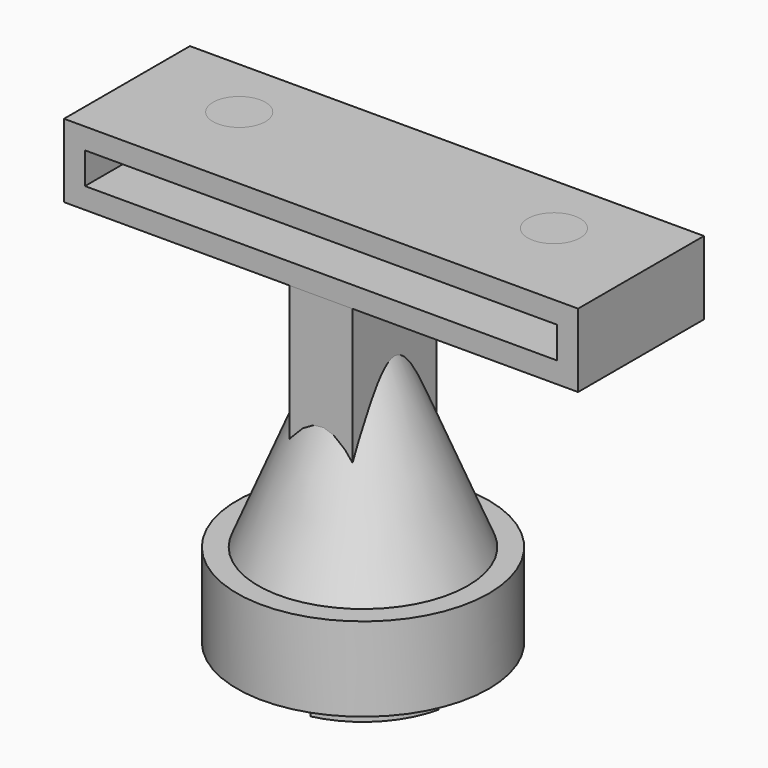
from build123d import *

# Parameters (mm, degrees)
BOX_W                  = 6
BOX_H                  = 10
BOX_DEPTH              = 13
BOX002_W               = 45
BOX002_H               = 13
BOX002_DEPTH           = 3
BOX001_W               = 49
BOX001_H               = 15
BOX001_DEPTH           = 7
BOX004_W               = 18
BOX004_H               = 4
BOX004_DEPTH           = 9
BOX004_PLACEMENT_ANGLE = -90
BOX003_W               = 18
BOX003_H               = 4
BOX003_DEPTH           = 9
CYLINDER004_R          = 7.25
CYLINDER004_DEPTH      = 7
CYLINDER003_R          = 7.75
CYLINDER003_DEPTH      = 7
CYLINDER002_R          = 9
CYLINDER002_DEPTH      = 9
CYLINDER001_R          = 10
CYLINDER001_DEPTH      = 8
CYLINDER_R             = 12
CYLINDER_DEPTH         = 8


with BuildPart() as obj1:
    # Box → Box (new body)
    with BuildSketch(Plane(origin=(-3, -5, 18), x_dir=(1, 0, 0), z_dir=(0, 0, 1))):
        with Locations((3, 5)):
            Rectangle(BOX_W, BOX_H)
    extrude(amount=BOX_DEPTH)


with BuildPart() as obj2:
    # Box002 → Box002 (new body)
    with BuildSketch(Plane(origin=(-22.5, -5, 37), x_dir=(1, 0, 0), z_dir=(0, 0, 1))):
        with Locations((22.5, 6.5)):
            Rectangle(BOX002_W, BOX002_H)
    extrude(amount=BOX002_DEPTH)


with BuildPart() as obj3:
    # Box001 → Box001 (new body)
    with BuildSketch(Plane(origin=(-24.5, -5, 35), x_dir=(1, 0, 0), z_dir=(0, 0, 1))):
        with Locations((24.5, 7.5)):
            Rectangle(BOX001_W, BOX001_H)
    extrude(amount=BOX001_DEPTH)

    # Cut: cut obj2
    add(obj2.part, mode=Mode.SUBTRACT)


with BuildPart() as obj3_1:
    # Cut placement: moved
    add(obj3.part.moved(Location((0, 0, -4))))


with BuildPart() as box004:
    # Box004 → Box004 (new body)
    with BuildSketch(Plane.XY):
        with Locations((9, 2)):
            Rectangle(BOX004_W, BOX004_H)
    extrude(amount=BOX004_DEPTH)


with BuildPart() as box004_1:
    # Box004 placement: moved
    add(box004.part.moved(Location((-2, 9, -2))).rotate(Axis((-2, 9, -2), (0, 0, 1)), BOX004_PLACEMENT_ANGLE))


with BuildPart() as box003:
    # Box003 → Box003 (new body)
    with BuildSketch(Plane(origin=(-9, -2, -2), x_dir=(1, 0, 0), z_dir=(0, 0, 1))):
        with Locations((9, 2)):
            Rectangle(BOX003_W, BOX003_H)
    extrude(amount=BOX003_DEPTH)


with BuildPart() as obj4:
    # Cylinder004 → Cylinder004 (new body)
    with BuildSketch(Plane.XY.offset(-5)):
        Circle(CYLINDER004_R)
    extrude(amount=CYLINDER004_DEPTH)


with BuildPart() as obj5:
    # Cylinder003 → Cylinder003 (new body)
    with BuildSketch(Plane.XY):
        Circle(CYLINDER003_R)
    extrude(amount=CYLINDER003_DEPTH)


with BuildPart() as obj6:
    # Cylinder002 → Cylinder002 (new body)
    with BuildSketch(Plane.XY.offset(-2)):
        Circle(CYLINDER002_R)
    extrude(amount=CYLINDER002_DEPTH)

    # Cut003: cut obj5
    add(obj5.part, mode=Mode.SUBTRACT)

    # Cut004: cut obj4
    add(obj4.part, mode=Mode.SUBTRACT)

    # Cut005: cut Box003
    add(box003.part, mode=Mode.SUBTRACT)

    # Cut006: cut Box004
    add(box004_1.part, mode=Mode.SUBTRACT)


with BuildPart() as sphere:
    # Sphere → Sphere (revolve)
    with BuildSketch(Plane(origin=(15, 4, 38), x_dir=(1, 0, 0), z_dir=(0, -1, 0))):
        with BuildLine():
            ThreePointArc((0, -2.5), (1.767767, -1.767767), (2.5, 0))
            Line((2.5, 0), (0, 0))
            Line((0, 0), (0, -2.5))
        make_face()
    revolve(axis=Axis((15, 4, 38), (0, 0, 1)))


with BuildPart() as sphere001:
    # Sphere001 → Sphere001 (revolve)
    with BuildSketch(Plane(origin=(-15, 4, 38), x_dir=(1, 0, 0), z_dir=(0, -1, 0))):
        with BuildLine():
            ThreePointArc((0, -2.5), (1.767767, -1.767767), (2.5, 0))
            Line((2.5, 0), (0, 0))
            Line((0, 0), (0, -2.5))
        make_face()
    revolve(axis=Axis((-15, 4, 38), (0, 0, 1)))


with BuildPart() as ball_thing_cutter:
    # Sphere002 → Sphere002 (revolve)
    with BuildSketch(Plane(origin=(0, 0, 2), x_dir=(1, 0, 0), z_dir=(0, -1, 0))):
        with BuildLine():
            ThreePointArc((0, -8), (8, 0), (0, 8))
            Line((0, 8), (0, -8))
        make_face()
    revolve(axis=Axis((0, 0, 2), (0, 0, 1)))


with BuildPart() as obj7:
    # Cylinder001 → Cylinder001 (new body)
    with BuildSketch(Plane.XY.offset(-1)):
        Circle(CYLINDER001_R)
    extrude(amount=CYLINDER001_DEPTH)


with BuildPart() as obj8:
    # Cylinder → Cylinder (new body)
    with BuildSketch(Plane.XY):
        Circle(CYLINDER_R)
    extrude(amount=CYLINDER_DEPTH)

    # Cut001: cut obj7
    add(obj7.part, mode=Mode.SUBTRACT)

    # Cut007: cut Ball-thing cutter
    add(ball_thing_cutter.part, mode=Mode.SUBTRACT)


with BuildPart() as cut008:
    # Cone → Cone (revolve)
    with BuildSketch(Plane(origin=(0, 0, 8), x_dir=(1, 0, 0), z_dir=(0, -1, 0))):
        Polygon((0, 0), (10, 0), (3, 17), (0, 17), align=None)
    revolve(axis=Axis((0, 0, 8), (0, 0, 1)))

    # Cut002: cut obj7
    add(obj7.part, mode=Mode.SUBTRACT)

    # Cut008: cut Ball-thing cutter
    add(ball_thing_cutter.part, mode=Mode.SUBTRACT)


solid = Compound([obj1.part, obj3_1.part, obj6.part, sphere.part, sphere001.part, obj8.part, cut008.part])
